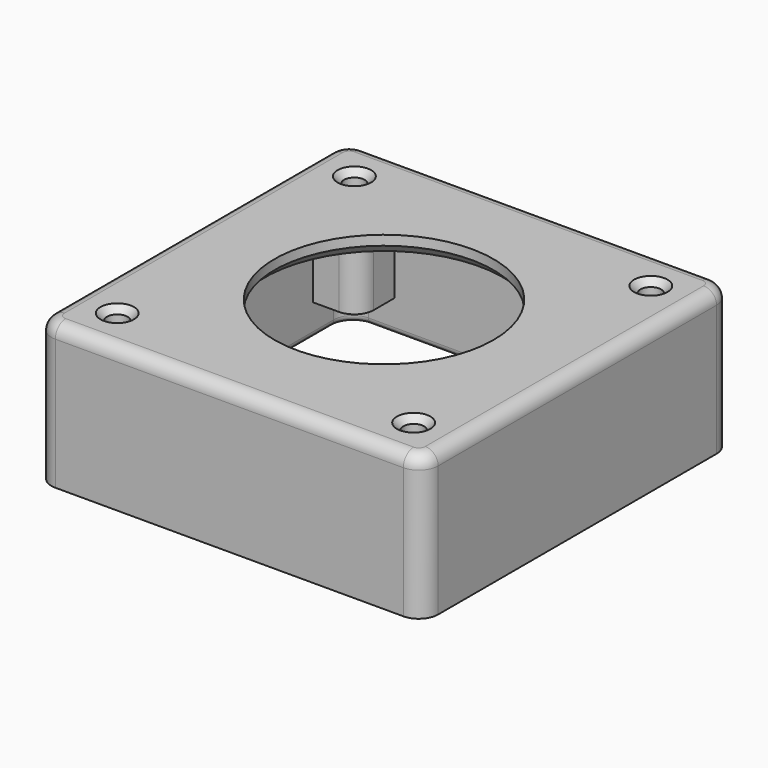
from build123d import *

# Parameters (mm, degrees)
PAD_DEPTH       = 3
SKETCH001_R     = 17
POCKET_DEPTH    = 3.001
PAD001_DEPTH    = 19.3
FILLET_R        = 1
FILLET001_R     = 2
CHAMFER_SIZE    = 1.5
SKETCH003_R     = 1.6
POCKET001_DEPTH = 5
SKETCH004_R     = 1.6
PAD002_DEPTH    = 14.3
CHAMFER001_SIZE = 1


with BuildPart() as part:
    # Sketch → Pad (new body)
    with BuildSketch(Plane.XY):
        with BuildLine():
            Line((-30, 27), (-30, -27))
            ThreePointArc((-30, -27), (-29.12132, -29.12132), (-27, -30))
            Line((-27, -30), (27, -30))
            ThreePointArc((27, -30), (29.12132, -29.12132), (30, -27))
            Line((30, -27), (30, 27))
            ThreePointArc((30, 27), (29.12132, 29.12132), (27, 30))
            Line((27, 30), (-27, 30))
            ThreePointArc((-27, 30), (-29.12132, 29.12132), (-30, 27))
        make_face()
    extrude(amount=PAD_DEPTH)

    # Sketch001 (on Face9 of Pad) → Pocket (cut, through all)
    with BuildSketch(Plane(origin=(0, 0, 0), x_dir=(1, 0, 0), z_dir=(0, 0, -1))):
        Circle(SKETCH001_R)
    extrude(amount=-POCKET_DEPTH, mode=Mode.SUBTRACT)

    # Sketch002 (on Face4 of Pocket) → Pad001 (join)
    with BuildSketch(Plane(origin=(0, 0, 0), x_dir=(1, 0, 0), z_dir=(0, 0, -1))):
        with BuildLine():
            Line((-30, 27), (-30, -27))
            ThreePointArc((-30, -27), (-29.12132, -29.12132), (-27, -30))
            Line((-27, -30), (27, -30))
            ThreePointArc((27, -30), (29.12132, -29.12132), (30, -27))
            Line((30, -27), (30, 27))
            ThreePointArc((30, 27), (29.12132, 29.12132), (27, 30))
            Line((27, 30), (-27, 30))
            ThreePointArc((-27, 30), (-29.12132, 29.12132), (-30, 27))
        make_face()
        with BuildLine():
            Line((-27, 24), (-27, -24))
            ThreePointArc((-27, -24), (-26.12132, -26.12132), (-24, -27))
            Line((-24, -27), (24, -27))
            ThreePointArc((24, -27), (26.12132, -26.12132), (27, -24))
            Line((27, -24), (27, 24))
            ThreePointArc((27, 24), (26.12132, 26.12132), (24, 27))
            Line((24, 27), (-24, 27))
            ThreePointArc((-24, 27), (-26.12132, 26.12132), (-27, 24))
        make_face(mode=Mode.SUBTRACT)
    extrude(amount=PAD001_DEPTH)

    # Fillet
    fillet_edges = [part.edges().sort_by_distance(p)[0] for p in [
        (-27, 0, -19.3),
        (27, 0, -19.3),
        (0, -27, -19.3),
        (0, 27, -19.3),
    ]]
    fillet(fillet_edges, radius=FILLET_R)

    # Fillet001
    fillet001_edges = [part.edges().sort_by_distance(p)[0] for p in [
        (0, 30, 3),
        (-30, 0, 3),
        (0, -30, 3),
        (30, 0, 3),
    ]]
    fillet(fillet001_edges, radius=FILLET001_R)

    # Chamfer
    chamfer_edges = [part.edges().sort_by_distance(p)[0] for p in [
        (-17, 0, 0),
    ]]
    chamfer(chamfer_edges, length=CHAMFER_SIZE)

    # Sketch003 (on Face4 of Chamfer) → Pocket001 (cut)
    with BuildSketch(Plane(origin=(0, 0, 0), x_dir=(1, 0, 0), z_dir=(0, 0, -1))):
        with Locations((-23, 23)):
            Circle(SKETCH003_R)
        with Locations((-23, -23)):
            Circle(SKETCH003_R)
        with Locations((23, -23)):
            Circle(SKETCH003_R)
        with Locations((23, 23)):
            Circle(SKETCH003_R)
    extrude(amount=-POCKET001_DEPTH, mode=Mode.SUBTRACT)

    # Sketch004 (on Face4 of Pocket001) → Pad002 (join)
    with BuildSketch(Plane(origin=(0, 0, 0), x_dir=(1, 0, 0), z_dir=(0, 0, -1))):
        with BuildLine():
            Line((-27, 24), (-27, 20))
            Line((-27, 20), (-23, 20))
            ThreePointArc((-23, 20), (-20.87868, 20.87868), (-20, 23))
            Line((-20, 23), (-20, 27))
            Line((-20, 27), (-24, 27))
            ThreePointArc((-24, 27), (-26.12132, 26.12132), (-27, 24))
        make_face()
        with Locations((-23, 23)):
            Circle(SKETCH004_R, mode=Mode.SUBTRACT)
        with BuildLine():
            Line((23, 20), (27, 20))
            Line((27, 20), (27, 24))
            ThreePointArc((27, 24), (26.12132, 26.12132), (24, 27))
            Line((24, 27), (20, 27))
            Line((20, 27), (20, 23))
            ThreePointArc((20, 23), (20.87868, 20.87868), (23, 20))
        make_face()
        with Locations((23, 23)):
            Circle(SKETCH004_R, mode=Mode.SUBTRACT)
        with BuildLine():
            Line((-23, -20), (-27, -20))
            Line((-27, -20), (-27, -24))
            ThreePointArc((-27, -24), (-26.12132, -26.12132), (-24, -27))
            Line((-24, -27), (-20, -27))
            Line((-20, -27), (-20, -23))
            ThreePointArc((-20, -23), (-20.87868, -20.87868), (-23, -20))
        make_face()
        with Locations((-23, -23)):
            Circle(SKETCH004_R, mode=Mode.SUBTRACT)
        with BuildLine():
            Line((27, -20), (23, -20))
            ThreePointArc((23, -20), (20.87868, -20.87868), (20, -23))
            Line((20, -23), (20, -27))
            Line((20, -27), (24, -27))
            ThreePointArc((24, -27), (26.12132, -26.12132), (27, -24))
            Line((27, -24), (27, -20))
        make_face()
        with Locations((23, -23)):
            Circle(SKETCH004_R, mode=Mode.SUBTRACT)
    extrude(amount=PAD002_DEPTH)

    # Chamfer001
    chamfer001_edges = [part.edges().sort_by_distance(p)[0] for p in [
        (-24.6, -23, 3),
        (21.4, -23, 3),
        (-24.6, 23, 3),
        (21.4, 23, 3),
    ]]
    chamfer(chamfer001_edges, length=CHAMFER001_SIZE)


solid = part.part
